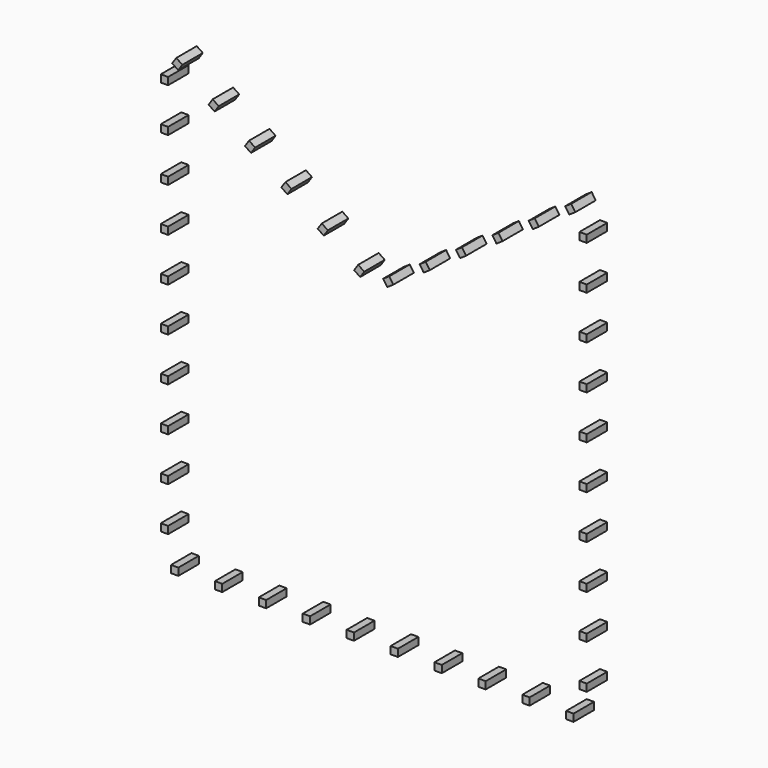
from build123d import *

# Parameters (mm, degrees)
F1_W     = 5.08
F1_H     = 5.08
F2_DEPTH = 17.78


with BuildPart() as f2:
    # F1 (on Front) → F2 (new body)
    with BuildSketch(Plane.XZ):
        Polygon((-9.444466, 66.651233), (-6.599574, 70.859913), (-10.808254, 73.704805), (-13.653146, 69.496125), align=None)
        Polygon((-34.696548, 83.720584), (-31.851656, 87.929265), (-36.060336, 90.774156), (-38.905228, 86.565476), align=None)
        Polygon((-59.94863, 100.789935), (-57.103738, 104.998616), (-61.312418, 107.843507), (-64.15731, 103.634827), align=None)
        Polygon((-85.200712, 117.859286), (-82.35582, 122.067967), (-86.5645, 124.912859), (-89.409392, 120.704178), align=None)
        Polygon((-110.452794, 134.928637), (-107.607902, 139.137318), (-111.816583, 141.98221), (-114.661474, 137.773529), align=None)
        Polygon((-135.704876, 151.997989), (-132.859984, 156.206669), (-137.068665, 159.051561), (-139.913557, 154.84288), align=None)
        with Locations((-145.301461, -9.391267)):
            Rectangle(F1_W, F1_H)
        with Locations((-145.301461, 21.088733)):
            Rectangle(F1_W, F1_H)
        with Locations((-145.301461, 51.568733)):
            Rectangle(F1_W, F1_H)
        with Locations((-145.301461, 82.048733)):
            Rectangle(F1_W, F1_H)
        with Locations((-145.301461, 112.528733)):
            Rectangle(F1_W, F1_H)
        with Locations((-145.301461, 143.008733)):
            Rectangle(F1_W, F1_H)
        with Locations((-145.301461, -131.311267)):
            Rectangle(F1_W, F1_H)
        with Locations((-145.301461, -100.831267)):
            Rectangle(F1_W, F1_H)
        with Locations((-145.301461, -70.351267)):
            Rectangle(F1_W, F1_H)
        with Locations((-145.301461, -39.871267)):
            Rectangle(F1_W, F1_H)
        with Locations((-16.269461, -154.485834)):
            Rectangle(F1_W, F1_H)
        with Locations((14.210539, -154.485834)):
            Rectangle(F1_W, F1_H)
        with Locations((44.690539, -154.485834)):
            Rectangle(F1_W, F1_H)
        with Locations((75.170539, -154.485834)):
            Rectangle(F1_W, F1_H)
        with Locations((105.650539, -154.485834)):
            Rectangle(F1_W, F1_H)
        with Locations((-138.189461, -154.485834)):
            Rectangle(F1_W, F1_H)
        with Locations((-107.709461, -154.485834)):
            Rectangle(F1_W, F1_H)
        with Locations((-77.229461, -154.485834)):
            Rectangle(F1_W, F1_H)
        with Locations((-46.749461, -154.485834)):
            Rectangle(F1_W, F1_H)
        with Locations((136.130539, -154.485834)):
            Rectangle(F1_W, F1_H)
        with Locations((145.301461, -11.229834)):
            Rectangle(F1_W, F1_H)
        with Locations((145.301461, 19.250166)):
            Rectangle(F1_W, F1_H)
        with Locations((145.301461, 49.730166)):
            Rectangle(F1_W, F1_H)
        with Locations((145.301461, 80.210166)):
            Rectangle(F1_W, F1_H)
        with Locations((145.301461, 110.690166)):
            Rectangle(F1_W, F1_H)
        with Locations((145.301461, 141.170166)):
            Rectangle(F1_W, F1_H)
        with Locations((145.301461, -133.149834)):
            Rectangle(F1_W, F1_H)
        with Locations((145.301461, -102.669834)):
            Rectangle(F1_W, F1_H)
        with Locations((145.301461, -72.189834)):
            Rectangle(F1_W, F1_H)
        with Locations((145.301461, -41.709834)):
            Rectangle(F1_W, F1_H)
        Polygon((6.549541, 70.826094), (9.394433, 66.617413), (13.603114, 69.462305), (10.758222, 73.670986), align=None)
        Polygon((31.801624, 87.895445), (34.646515, 83.686764), (38.855196, 86.531656), (36.010304, 90.740337), align=None)
        Polygon((57.053706, 104.964796), (59.898598, 100.756116), (64.107278, 103.601007), (61.262386, 107.809688), align=None)
        Polygon((82.305788, 122.034147), (85.15068, 117.825467), (89.35936, 120.670358), (86.514468, 124.879039), align=None)
        Polygon((107.55787, 139.103498), (110.402762, 134.894818), (114.611442, 137.73971), (111.76655, 141.94839), align=None)
        Polygon((132.809952, 156.172849), (135.654844, 151.964169), (139.863524, 154.809061), (137.018633, 159.017741), align=None)
    extrude(amount=F2_DEPTH)


solid = f2.part
